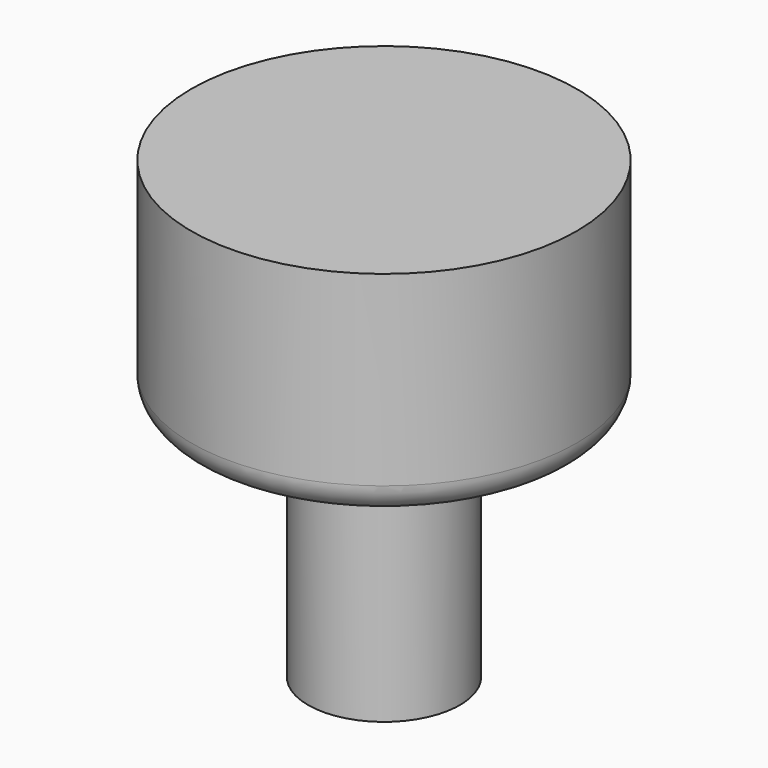
from build123d import *

# Parameters (mm, degrees)
F3_R = 5


with BuildPart() as f2:
    # F1 (on Front) → F2 (revolve)
    with BuildSketch(Plane.XZ):
        Polygon((-33, 9.200001), (-13, 9.200001), (-13, -31.799999), (0, -31.799999), (0, 9.200001), (0, 46.162404), (-33, 46.162404), align=None)
    revolve(axis=Axis((0, 0, 27.681202), (0, 0, 1)))

    # F3
    f3_edges = [f2.edges().sort_by_distance(p)[0] for p in [
        (13, 0, 9.200001),
        (33, 0, 9.200001),
    ]]
    fillet(f3_edges, radius=F3_R)


solid = f2.part
